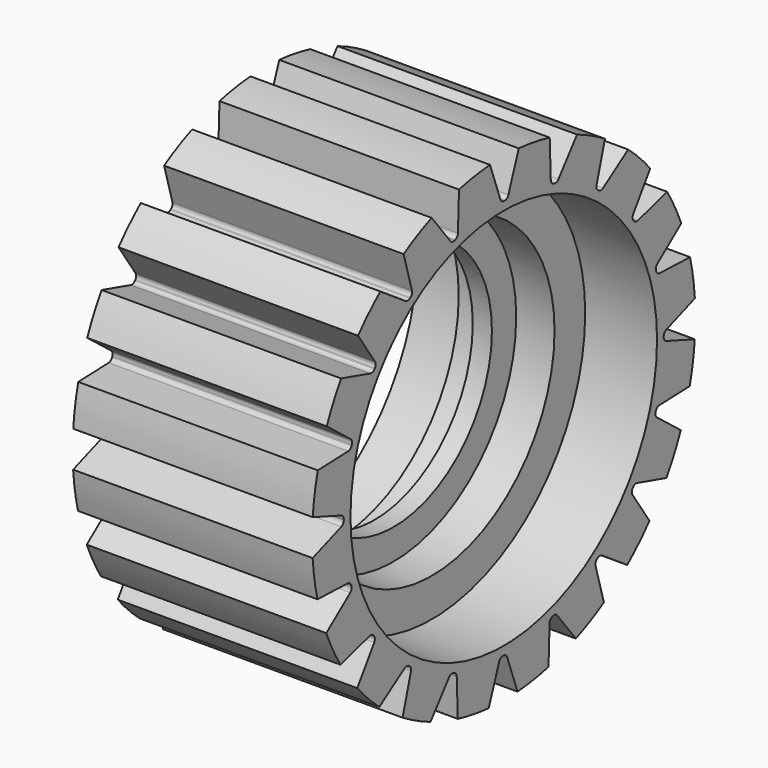
from build123d import *

# Parameters (mm, degrees)
F3_DEPTH = 50
F4_COUNT = 20


with BuildPart() as f1:
    # F0 (on Top) → F1 (revolve)
    with BuildSketch(Plane.XY):
        Polygon((0, 40), (0, 50), (-50, 50), (-50, 40), (-35, 40), (-35, 32), (-27, 32), (-27, 25.6603773385), (-23, 25.6603773385), (-23, 32), (-15, 32), (-15, 40), align=None)
    revolve(axis=Axis((-25, 0, 0), (-1, 0, 0)))

    # F2 (on face) → F3 (cut)
    with BuildSketch(Plane.YZ):
        with BuildLine():
            Line((1.2014859403, 42.3988246892), (3.9122925633, 49.8467046744))
            ThreePointArc((3.9122925633, 49.8467046744), (0.160266729, 49.9997431451), (-3.5926630814, 49.8707606918))
            Line((-3.5926630814, 49.8707606918), (-0.8731007841, 42.3988246892))
            ThreePointArc((-0.8731007841, 42.3988246892), (-0.5069845997, 41.9216927883), (0.0665918367, 41.7408448326))
            Line((0.0665918367, 41.7408448326), (0.2617933195, 41.7408448326))
            ThreePointArc((0.2617933195, 41.7408448326), (0.8353697558, 41.9216927883), (1.2014859403, 42.3988246892))
        make_face()
    f3 = extrude(amount=-F3_DEPTH, mode=Mode.SUBTRACT)

    # F4: F3 ×20 about axis
    f4_axis = Axis((0, 0, 0), (-1, 0, 0))
    for i in range(1, F4_COUNT):
        add(f3.rotate(f4_axis, i * 360 / F4_COUNT), mode=Mode.SUBTRACT)


solid = f1.part
